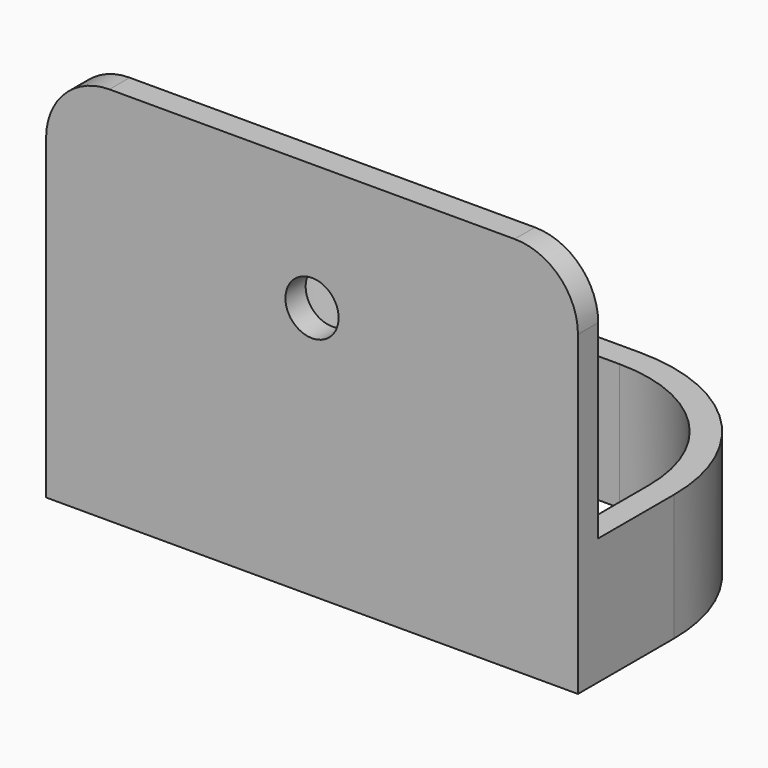
from build123d import *

# Parameters (mm, degrees)
F1_DEPTH = 10
F3_DEPTH = 25
F4_W     = 42
F4_H     = 2
F5_DEPTH = 20
F6_R     = 2.1
F7_DEPTH = 4
F8_R     = 5
F9_R     = 5


with BuildPart() as f1:
    # F0 (on Top) → F1 (new body)
    with BuildSketch(Plane.XY):
        with BuildLine():
            Line((51.723857, -41.288426), (36.723857, -41.288426))
            ThreePointArc((36.723857, -41.288426), (27.177916, -45.242484), (23.223857, -54.788426))
            Line((23.223857, -54.788426), (23.223857, -64.288426))
            Line((23.223857, -64.288426), (65.223857, -64.288426))
            Line((65.223857, -64.288426), (65.223857, -54.788426))
            ThreePointArc((65.223857, -54.788426), (61.269799, -45.242484), (51.723857, -41.288426))
        make_face()
    extrude(amount=F1_DEPTH)

    # F2 (on face) → F3 (cut)
    with BuildSketch(Plane.XY.offset(10)):
        with BuildLine():
            Line((51.723857, -43.288426), (36.723857, -43.288426))
            ThreePointArc((36.723857, -43.288426), (28.592129, -46.656698), (25.223857, -54.788426))
            Line((25.223857, -54.788426), (25.223857, -62.288426))
            Line((25.223857, -62.288426), (63.223857, -62.288426))
            Line((63.223857, -62.288426), (63.223857, -54.788426))
            ThreePointArc((63.223857, -54.788426), (59.855585, -46.656698), (51.723857, -43.288426))
        make_face()
    extrude(amount=-F3_DEPTH, mode=Mode.SUBTRACT)

    # F4 (on face) → F5 (join)
    with BuildSketch(Plane.XY.offset(10)):
        with Locations((44.223857, -63.288426)):
            Rectangle(F4_W, F4_H)
    extrude(amount=F5_DEPTH)

    # F6 (on face) → F7 (cut)
    with BuildSketch(Plane.XZ.offset(64.288426)):
        with Locations((44.223857, 20)):
            Circle(F6_R)
    extrude(amount=-F7_DEPTH, mode=Mode.SUBTRACT)

    # F8
    f8_edges = [f1.edges().sort_by_distance(p)[0] for p in [
        (65.223857, -63.288426, 30),
    ]]
    fillet(f8_edges, radius=F8_R)

    # F9
    f9_edges = [f1.edges().sort_by_distance(p)[0] for p in [
        (23.223857, -63.288426, 30),
    ]]
    fillet(f9_edges, radius=F9_R)


solid = f1.part
